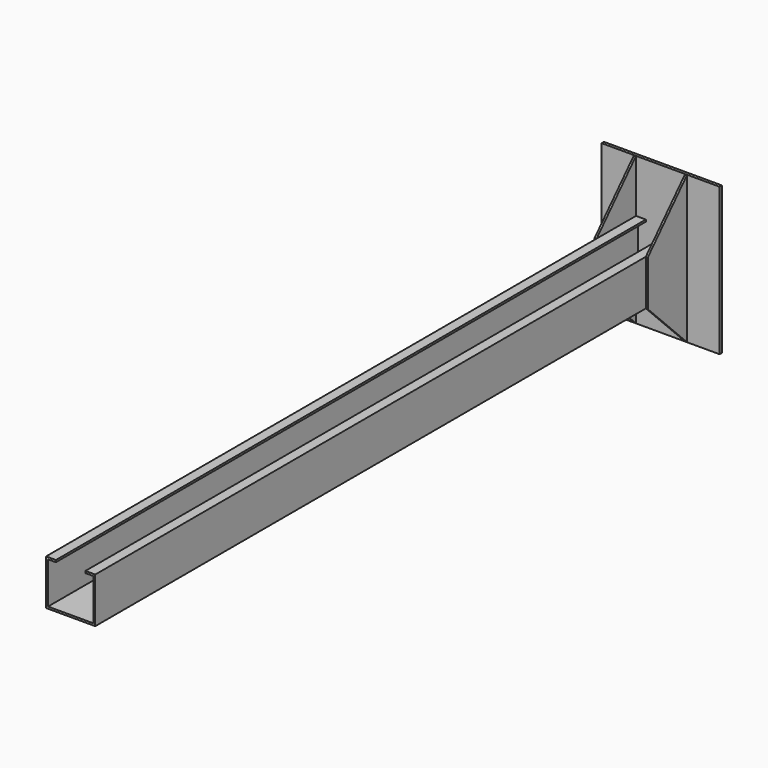
from build123d import *

# Parameters (mm, degrees)
F0_W     = 120
F0_H     = 150
F1_DEPTH = 3
F3_DEPTH = 750
F5_DEPTH = 2
F7_DEPTH = 2


with BuildPart() as f1:
    # F0 (on Front) → F1 (new body)
    with BuildSketch(Plane.XZ):
        Rectangle(F0_W, F0_H)
    extrude(amount=-F1_DEPTH)

    # F2 (on face) → F3 (join)
    with BuildSketch(Plane.XZ):
        Polygon((-23, 19.26168), (-15, 19.26168), (-15, 21.26168), (-25, 21.26168), (-25, -25), (25, -25), (25, 21.26168), (15, 21.26168), (15, 19.26168), (23, 19.26168), (23, -23), (-23, -23), align=None)
    extrude(amount=F3_DEPTH)

    # F4 (on face) → F5 (join)
    with BuildSketch(Plane.YZ.offset(25)):
        Polygon((-50, -25), (0, -75), (0, 75), (-50, 21.26168), align=None)
    extrude(amount=F5_DEPTH)

    # F6 (on face) → F7 (join)
    with BuildSketch(Plane(origin=(-25, 0, 0), x_dir=(0, -1, 0), z_dir=(-1, 0, 0))):
        Polygon((0, 75), (0, -75), (50, -25), (50, 21.26168), align=None)
    extrude(amount=F7_DEPTH)


solid = f1.part
